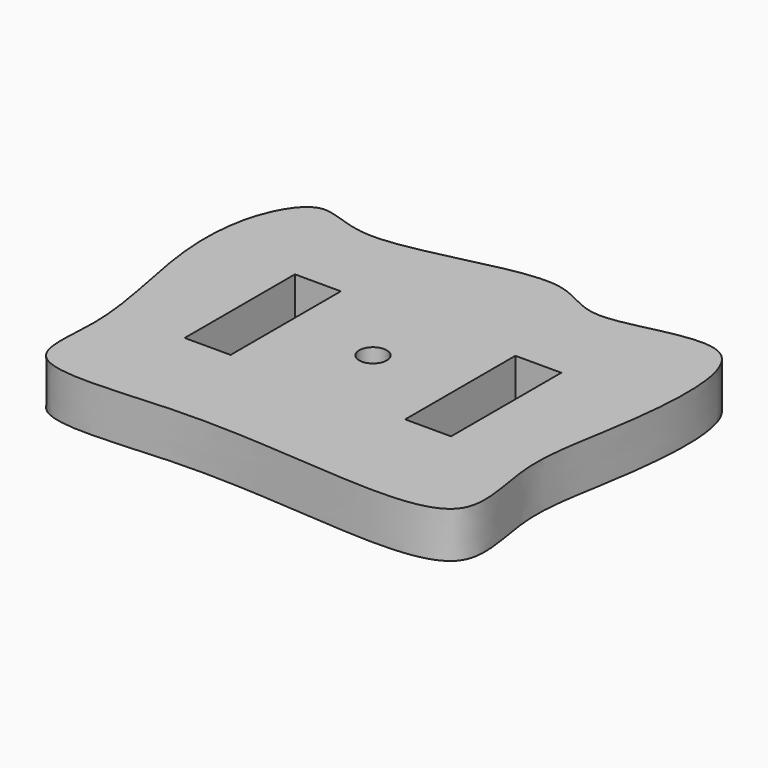
from build123d import *

# Parameters (mm, degrees)
F0_W     = 80
F0_H     = 60
F1_DEPTH = 10
F2_W     = 10
F2_H     = 30
F3_DEPTH = 25
F4_R     = 3
F5_DEPTH = 25
F6_W     = 80
F6_H     = 60
F7_DEPTH = 10


with BuildPart() as f1:
    # F0 (on Top) → F1 (new body)
    with BuildSketch(Plane.XY):
        Rectangle(F0_W, F0_H)
    extrude(amount=F1_DEPTH)

    # F2 (on face) → F3 (cut)
    with BuildSketch(Plane.XY.offset(10)):
        with Locations((-24, 0)):
            Rectangle(F2_W, F2_H)
        with Locations((24, 0)):
            Rectangle(F2_W, F2_H)
    extrude(amount=-F3_DEPTH, mode=Mode.SUBTRACT)

    # F4 (on face) → F5 (cut)
    with BuildSketch(Plane.XY.offset(10)):
        Circle(F4_R)
    extrude(amount=-F5_DEPTH, mode=Mode.SUBTRACT)

    # F6 (on face) → F7 (join)
    with BuildSketch(Plane.XY.offset(10)):
        with BuildLine():
            add(Edge.make_bspline(
                [(-40.6826585531, 36.7112569511), (-37.6858730286, 37.2872152432), (-28.2770498911, 29.6521046242), (9.1089835818, 44.9881226055), (18.7648904769, 30.9853930044), (53.3282246097, 47.6409588377), (49.226991833, 3.5713378702), (44.3670345281, -15.109842129), (52.3442576495, -39.4957624409), (19.7951527905, -38.77035861), (-11.3457625658, -35.2096106935), (-48.0596270255, -40.6790272937), (-42.3957725261, -17.966427904), (-50.3296277475, 8.402869627), (-48.8287943199, 28.4820708674), (-43.3332087761, 36.2018423243), (-40.6826585531, 36.7112569511)],
                knots=[0, 0, 0, 0, 0.0536514365, 0.1445010658, 0.2006270986, 0.2758529772, 0.3605851231, 0.4334926851, 0.4968264658, 0.570891712, 0.6629240708, 0.7434770054, 0.8037758059, 0.8847161907, 0.9525472124, 1, 1, 1, 1], degree=3))
        make_face()
        Rectangle(F6_W, F6_H, mode=Mode.SUBTRACT)
    extrude(amount=-F7_DEPTH)


solid = f1.part
